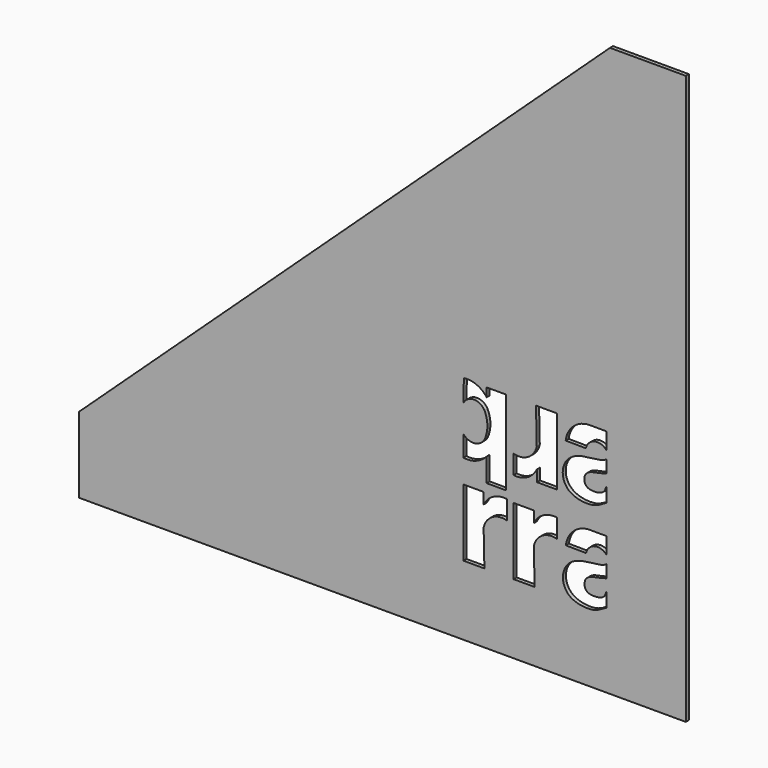
from build123d import *

# Parameters (mm, degrees)
F1_DEPTH = 2


with BuildPart() as f1:
    # F0 (on Front) → F1 (new body)
    with BuildSketch(Plane.XZ):
        Polygon((-112.1402904391, 33.0038927495), (207.8597095609, 33.0038927495), (207.8597095609, 332.3038927495), (207.8597095609, 333.0038927495), (167.8597095609, 333.0038927495), (-112.1402904391, 73.0038927495), align=None)
        with BuildLine():
            Line((101.2039725726, 88.4770882584), (101.6136759777, 69.7171021446))
            Line((101.6136759777, 69.7171021446), (90.5410552282, 69.7171021446))
            Line((90.5410552282, 69.7171021446), (90.5410552282, 105.1249880537))
            Line((90.5410552282, 105.1249880537), (101.1704111356, 105.1249880537))
            Line((101.1704111356, 105.1249880537), (101.1704111356, 99.2129225477))
            ThreePointArc((101.1704111356, 99.2129225477), (106.2318508757, 104.4981198242), (113.4292611737, 105.8205295548))
            Line((113.4292611737, 105.8205295548), (113.4292611737, 95.8221633181))
            ThreePointArc((113.4292611737, 95.8221633181), (105.6893165245, 94.8581367621), (101.2039725726, 88.4770882584))
        make_face(mode=Mode.SUBTRACT)
        with BuildLine():
            Line((127.6888195951, 88.4937142061), (128.0985230001, 69.7337280923))
            Line((128.0985230001, 69.7337280923), (117.0259022507, 69.7337280923))
            Line((117.0259022507, 69.7337280923), (117.0259022507, 105.1416140014))
            Line((117.0259022507, 105.1416140014), (127.6552581581, 105.1416140014))
            Line((127.6552581581, 105.1416140014), (127.6552581581, 99.2295484954))
            ThreePointArc((127.6552581581, 99.2295484954), (132.7166978981, 104.5147457719), (139.9141081962, 105.8371555025))
            Line((139.9141081962, 105.8371555025), (139.9141081962, 95.8387892658))
            ThreePointArc((139.9141081962, 95.8387892658), (132.1741635469, 94.8747627098), (127.6888195951, 88.4937142061))
        make_face(mode=Mode.SUBTRACT)
        with BuildLine():
            add(Edge.make_bspline(
                [(166.1158787618, 92.7830700848), (164.5692102089, 91.5353198263), (160.8559417387, 91.0074140824), (147.0308134747, 89.8356227603), (141.5287422164, 79.8600298922), (145.6215095019, 69.4638702682), (159.8163332075, 68.0542730887), (163.3323899676, 71.0322612124), (166.1158787618, 72.4894021723)],
                knots=[0, 0, 0, 0, 0.1282549597, 0.3235779421, 0.4933166916, 0.6588260023, 0.8480719548, 1, 1, 1, 1], degree=3))
            Line((166.1158787618, 92.7830700848), (166.1158787618, 86.1217890952))
            add(Edge.make_bspline(
                [(166.1158787618, 80.1576142285), (165.648079511, 78.8716732666), (164.7089985438, 76.1838402752), (159.2900957109, 75.3320101397), (154.3144147308, 76.3842047893), (154.1488989038, 82.6667071186), (159.3286899056, 84.8140545113), (163.2298071329, 85.1164060676), (166.1158787618, 86.1217890952)],
                knots=[0, 0, 0, 0, 0.1467139352, 0.3148344078, 0.4723324727, 0.6349882053, 0.7976765175, 1, 1, 1, 1], degree=3))
            Line((166.1158787618, 80.1576142285), (166.1158787618, 72.4894021723))
        make_face(mode=Mode.SUBTRACT)
        with BuildLine():
            ThreePointArc((144.5925937182, 94.4093083117), (148.8127137387, 102.502604489), (157.3532582577, 105.7228459891))
            Line((157.3532582577, 105.7228459891), (166.1158787618, 105.6858685351))
            Line((166.1158787618, 105.6858685351), (166.1158787618, 96.8470781765))
            ThreePointArc((166.1158787618, 96.8470781765), (159.8763121864, 98.9559091904), (155.2180157191, 94.2997698758))
            Line((155.2180157191, 94.2997698758), (144.5925937182, 94.4093083117))
        make_face(mode=Mode.SUBTRACT)
        with BuildLine():
            ThreePointArc((90.7690819051, 154.6215500374), (97.4783010599, 153.7198410632), (102.8321381356, 149.5770003338))
            Line((102.8321381356, 149.5770003338), (102.8321381356, 154.1828896542))
            Line((102.8321381356, 154.1828896542), (113.140575185, 154.1828896542))
            Line((113.140575185, 154.1828896542), (113.140575185, 109.6980508108))
            Line((113.140575185, 109.6980508108), (102.8321381356, 109.6980508108))
            Line((102.8321381356, 109.6980508108), (102.8321381356, 122.1266548772))
            ThreePointArc((102.8321381356, 122.1266548772), (97.2685141585, 118.2745070428), (90.5424948479, 117.5304513116))
            Line((90.5424948479, 117.5304513116), (90.5424948479, 128.526845171))
            ThreePointArc((90.5424948479, 128.526845171), (96.3918627119, 126.17333299), (101.6822974827, 129.6034093638))
            ThreePointArc((101.6822974827, 129.6034093638), (103.1910724549, 136.3586272736), (101.6822974827, 143.1138451834))
            ThreePointArc((101.6822974827, 143.1138451834), (96.1363497819, 146.3446188485), (90.5904020812, 143.1138451834))
            Line((90.5904020812, 143.1138451834), (90.7690819051, 154.6215500374))
        make_face(mode=Mode.SUBTRACT)
        with BuildLine():
            Line((129.2334676245, 135.4241105345), (128.8237642195, 154.1840966483))
            Line((128.8237642195, 154.1840966483), (139.8963849689, 154.1840966483))
            Line((139.8963849689, 154.1840966483), (139.8963849689, 118.7762107392))
            Line((139.8963849689, 118.7762107392), (129.2670290615, 118.7762107392))
            Line((129.2670290615, 118.7762107392), (129.2670290615, 124.6882762452))
            ThreePointArc((129.2670290615, 124.6882762452), (124.2055893215, 119.4030789686), (117.0081790234, 118.0806692381))
            Line((117.0081790234, 118.0806692381), (117.0081790234, 128.0790354748))
            ThreePointArc((117.0081790234, 128.0790354748), (124.7481236727, 129.0430620307), (129.2334676245, 135.4241105345))
        make_face(mode=Mode.SUBTRACT)
        with BuildLine():
            add(Edge.make_bspline(
                [(166.0185557871, 141.4059485932), (164.4718872342, 140.1581983347), (160.7586187641, 139.6302925908), (146.9334905, 138.4585012686), (141.4314192417, 128.4829084005), (145.5241865272, 118.0867487766), (159.7190102328, 116.6771515971), (163.2350669929, 119.6551397208), (166.0185557871, 121.1122806807)],
                knots=[0, 0, 0, 0, 0.1282549597, 0.3235779421, 0.4933166916, 0.6588260023, 0.8480719548, 1, 1, 1, 1], degree=3))
            Line((166.0185557871, 141.4059485932), (166.0185557871, 134.7446676035))
            add(Edge.make_bspline(
                [(166.0185557871, 128.7804927369), (165.5507565363, 127.4945517749), (164.6116755691, 124.8067187836), (159.1927727362, 123.9548886481), (154.2170917561, 125.0070832977), (154.0515759291, 131.2895856269), (159.231366931, 133.4369330196), (163.1324841582, 133.739284576), (166.0185557871, 134.7446676035)],
                knots=[0, 0, 0, 0, 0.1467139352, 0.3148344078, 0.4723324727, 0.6349882053, 0.7976765175, 1, 1, 1, 1], degree=3))
            Line((166.0185557871, 128.7804927369), (166.0185557871, 121.1122806807))
        make_face(mode=Mode.SUBTRACT)
        with BuildLine():
            ThreePointArc((144.4952707435, 143.0321868201), (148.715390764, 151.1254829974), (157.255935283, 154.3457244975))
            Line((157.255935283, 154.3457244975), (166.0185557871, 154.3087470435))
            Line((166.0185557871, 154.3087470435), (166.0185557871, 145.4699566849))
            ThreePointArc((166.0185557871, 145.4699566849), (159.7789892117, 147.5787876987), (155.1206927444, 142.9226483841))
            Line((155.1206927444, 142.9226483841), (144.4952707435, 143.0321868201))
        make_face(mode=Mode.SUBTRACT)
    extrude(amount=F1_DEPTH)


solid = f1.part
